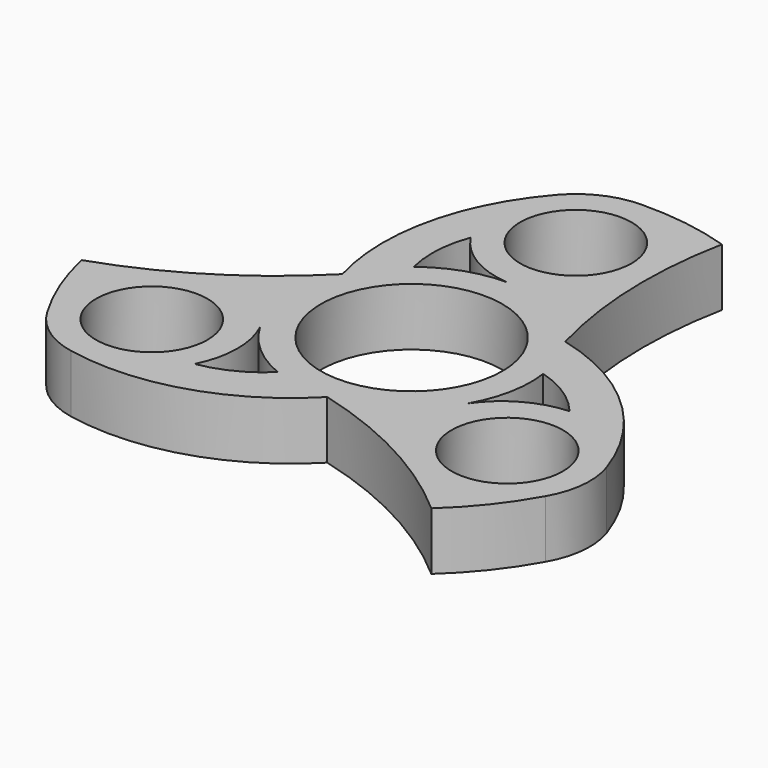
from build123d import *

# Parameters (mm, degrees)
F0_R     = 6.75
F0_R_2   = 11
F1_DEPTH = 7


with BuildPart() as f1:
    # F0 (on Top) → F1 (new body)
    with BuildSketch(Plane.XY):
        with BuildLine():
            ThreePointArc((0.0303634628, 34.8677483042), (-4.1124282103, 33.9830527199), (-7.5172278162, 31.4625867377))
            ThreePointArc((-7.5172278162, 31.4625867377), (-13.6121821661, 19.4898899069), (-13.2411988753, 6.0602097422))
            ThreePointArc((-13.2411988753, 6.0602097422), (-22.9967779432, -1.7556709932), (-34.2936443309, -7.1073178834))
            ThreePointArc((-34.2936443309, -7.1073178834), (-32.6733499934, -12.4241997031), (-30.2115375356, -17.407578622))
            ThreePointArc((-30.2115375356, -17.407578622), (-27.3739728485, -20.5529936613), (-23.4887854755, -22.2414036237))
            ThreePointArc((-23.4887854755, -22.2414036237), (-10.0726486933, -21.5334405102), (1.3723038486, -14.4973194736))
            ThreePointArc((1.3723038486, -14.4973194736), (13.0188446523, -19.0379584074), (23.3019400052, -26.1455082372))
            ThreePointArc((23.3019400052, -26.1455082372), (27.0963475613, -22.0838512694), (30.1811740728, -17.4601696823))
            ThreePointArc((30.1811740728, -17.4601696823), (31.4864010588, -13.4300590586), (31.0060132917, -9.221183114))
            ThreePointArc((31.0060132917, -9.221183114), (23.6848308594, 2.0435506033), (11.8688950266, 8.4371097315))
            ThreePointArc((11.8688950266, 8.4371097315), (9.9779332908, 20.7936294005), (10.9917043257, 33.2528261205))
            ThreePointArc((10.9917043257, 33.2528261205), (5.5770024321, 34.5080509726), (0.0303634628, 34.8677483042))
        make_face()
        with Locations((-21.5361416876, -12.4338972007)):
            Circle(F0_R, mode=Mode.SUBTRACT)
        with BuildLine():
            ThreePointArc((-12.6630806003, -17.045706709), (-11.4611852349, -12.169559613), (-12.5478578488, -7.2664477846))
            ThreePointArc((-12.5478578488, -7.2664477846), (-9.5228828701, -10.9345645475), (-5.47403134, -13.4270242753))
            ThreePointArc((-5.47403134, -13.4270242753), (-8.7901592188, -15.7894419215), (-12.6630806003, -17.045706709))
        make_face(mode=Mode.SUBTRACT)
        with BuildLine():
            ThreePointArc((1.4389157248, -14.428427549), (1.4056400908, -14.4629028124), (1.3723038486, -14.4973194736))
            ThreePointArc((1.3723038486, -14.4973194736), (1.2826311608, -14.4740053694), (1.1929184258, -14.4508458448))
            ThreePointArc((1.1929184258, -14.4508458448), (1.3159648149, -14.4401605464), (1.4389157248, -14.428427549))
        make_face(mode=Mode.SUBTRACT)
        with Locations((21.5361416876, -12.4338972007)):
            Circle(F0_R, mode=Mode.SUBTRACT)
        Circle(F0_R_2, mode=Mode.SUBTRACT)
        with BuildLine():
            ThreePointArc((14.3651597896, 1.9728619361), (18.069137425, 0.282219774), (21.0935553356, -2.4436961356))
            ThreePointArc((21.0935553356, -2.4436961356), (16.2697403952, -3.8408977644), (12.5668573011, -7.2335397678))
            ThreePointArc((12.5668573011, -7.2335397678), (14.2310521125, -2.779776209), (14.3651597896, 1.9728619361))
        make_face(mode=Mode.SUBTRACT)
        with BuildLine():
            ThreePointArc((-8.4304747353, 19.4894028445), (-4.8085551602, 16.0104573774), (-0.0189994523, 14.4999875524))
            ThreePointArc((-0.0189994523, 14.4999875524), (-4.7081692424, 13.7143407565), (-8.8911284496, 11.4541623392))
            ThreePointArc((-8.8911284496, 11.4541623392), (-9.2789782062, 15.5072221475), (-8.4304747353, 19.4894028445))
        make_face(mode=Mode.SUBTRACT)
        with Locations((0, 24.8677944013)):
            Circle(F0_R, mode=Mode.SUBTRACT)
        with BuildLine():
            ThreePointArc((1.1929184258, -14.4508458448), (1.2826311608, -14.4740053694), (1.3723038486, -14.4973194736))
            ThreePointArc((1.3723038486, -14.4973194736), (1.4056400908, -14.4629028124), (1.4389157248, -14.428427549))
            ThreePointArc((1.4389157248, -14.428427549), (1.3159648149, -14.4401605464), (1.1929184258, -14.4508458448))
        make_face()
    extrude(amount=F1_DEPTH)


solid = f1.part
